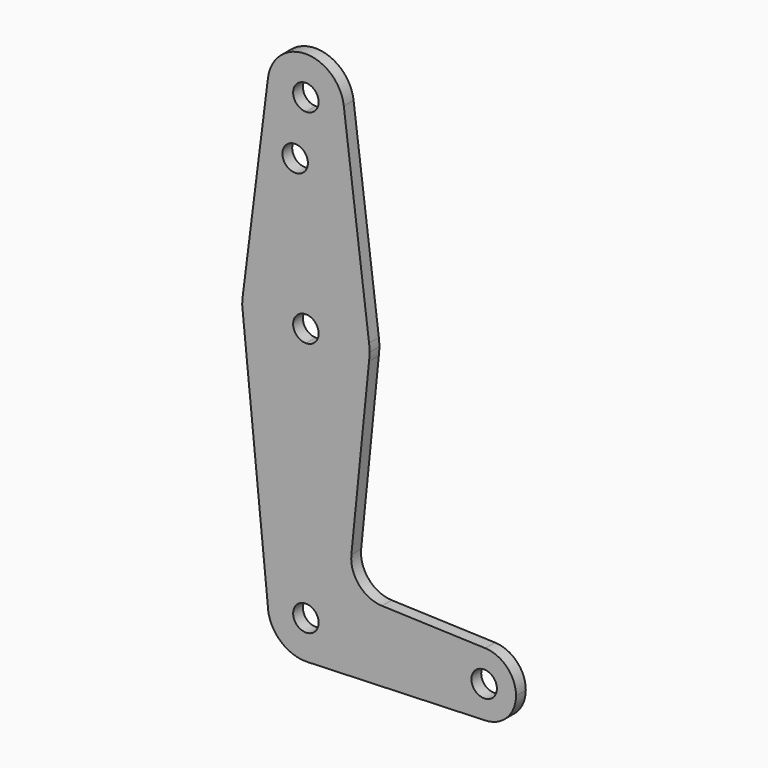
from build123d import *

# Parameters (mm, degrees)
F1_DEPTH = 3.048


with BuildPart() as f1:
    # F0 (on Front) → F1 (new body)
    with BuildSketch(Plane.XZ):
        with BuildLine():
            ThreePointArc((-9.4502929642, 115.490625), (-7.14375, 107.9998046905), (0, 104.775))
            ThreePointArc((0, 104.775), (6.7351920908, 107.5648079092), (9.525, 114.3))
            ThreePointArc((9.525, 114.3), (9.5063048942, 114.896483242), (9.4502929642, 115.490625))
            ThreePointArc((9.4502929642, 115.490625), (0, 123.825), (-9.4502929642, 115.490625))
        make_face()
        with BuildLine():
            ThreePointArc((3.175, 114.3), (2.2450640303, 112.0549359697), (0, 111.125))
            ThreePointArc((0, 111.125), (-2.2450640303, 116.5450640303), (3.175, 114.3))
        make_face(mode=Mode.SUBTRACT)
        with BuildLine():
            Line((0, 101.734949377), (0, 104.775))
            ThreePointArc((0, 104.775), (-7.14375, 107.9998046905), (-9.4502929642, 115.490625))
            Line((-9.4502929642, 115.490625), (-15.7504882737, 65.484375))
            ThreePointArc((-15.7504882737, 65.484375), (-10.5003255158, 75.40625), (0, 79.375))
            Line((0, 79.375), (0, 98.315450623))
            ThreePointArc((0, 98.315450623), (-5.8503284037, 100.0252), (0, 101.734949377))
        make_face()
        with BuildLine():
            ThreePointArc((9.525, 114.3), (6.7351920908, 107.5648079092), (0, 104.775))
            Line((0, 104.775), (0, 101.734949377))
            ThreePointArc((0, 101.734949377), (0.3721945808, 100.9158338524), (0.4996715963, 100.0252))
            ThreePointArc((0.4996715963, 100.0252), (0.3721945808, 99.1345661476), (0, 98.315450623))
            Line((0, 98.315450623), (0, 79.375))
            ThreePointArc((0, 79.375), (10.5003255158, 75.40625), (15.7504882737, 65.484375))
            Line((15.7504882737, 65.484375), (9.4502929642, 115.490625))
            ThreePointArc((9.4502929642, 115.490625), (9.5063048942, 114.896483242), (9.525, 114.3))
        make_face()
        with BuildLine():
            ThreePointArc((15.7504882737, 65.484375), (10.5003255158, 75.40625), (0, 79.375))
            Line((0, 79.375), (0, 66.675))
            ThreePointArc((0, 66.675), (2.2450640303, 65.7450640303), (3.175, 63.5))
            ThreePointArc((3.175, 63.5), (2.2450640303, 61.2549359697), (0, 60.325))
            Line((0, 60.325), (0, 47.625))
            ThreePointArc((0, 47.625), (10.5003255158, 51.59375), (15.7504882737, 61.515625))
            ThreePointArc((15.7504882737, 61.515625), (15.8438414904, 62.5058612634), (15.875, 63.5))
            ThreePointArc((15.875, 63.5), (15.8438414904, 64.4941387366), (15.7504882737, 65.484375))
        make_face()
        with BuildLine():
            ThreePointArc((0, 79.375), (-10.5003255158, 75.40625), (-15.7504882737, 65.484375))
            ThreePointArc((-15.7504882737, 65.484375), (-15.8438414904, 64.4941387366), (-15.875, 63.5))
            Line((-15.875, 63.5), (-15.5606435644, 60.3564356436))
            ThreePointArc((-15.5606435644, 60.3564356436), (-10.0526499203, 51.2134278751), (0, 47.625))
            Line((0, 47.625), (0, 60.325))
            ThreePointArc((0, 60.325), (-3.175, 63.5), (0, 66.675))
            Line((0, 66.675), (0, 79.375))
        make_face()
        with BuildLine():
            ThreePointArc((0, 47.625), (-10.0526499203, 51.2134278751), (-15.5606435644, 60.3564356436))
            Line((-15.5606435644, 60.3564356436), (-9.525, 0))
            ThreePointArc((-9.525, 0), (-6.7351920908, 6.7351920908), (0, 9.525))
            Line((0, 9.525), (0, 47.625))
        make_face()
        with BuildLine():
            Line((11.3396291712, 17.5928021167), (15.7504882737, 61.515625))
            ThreePointArc((15.7504882737, 61.515625), (10.5003255158, 51.59375), (0, 47.625))
            Line((0, 47.625), (0, 9.525))
            ThreePointArc((0, 9.525), (6.7351920908, 6.7351920908), (9.525, 0))
            Line((9.525, 0), (36.5125, 0))
            ThreePointArc((36.5125, 0), (38.9384772185, 5.7120069047), (44.7334821429, 7.9324362036))
            Line((44.7334821429, 7.9324362036), (18.9661061807, 8.8532870956))
            ThreePointArc((18.9661061807, 8.8532870956), (13.2599152451, 11.5711728307), (11.3396291712, 17.5928021167))
        make_face()
        with BuildLine():
            ThreePointArc((9.525, 0), (6.8544082857, -6.6138273378), (0.3401785714, -9.5189234444))
            Line((0.3401785714, -9.5189234444), (44.7334821429, -7.9324362036))
            ThreePointArc((44.7334821429, -7.9324362036), (38.9384772185, -5.7120069047), (36.5125, 0))
            Line((36.5125, 0), (9.525, 0))
        make_face()
        with BuildLine():
            ThreePointArc((0, 9.525), (-6.7351920908, 6.7351920908), (-9.525, 0))
            ThreePointArc((-9.525, 0), (-6.6138273378, -6.8544082857), (0.3401785714, -9.5189234444))
            ThreePointArc((0.3401785714, -9.5189234444), (6.8544082857, -6.6138273378), (9.525, 0))
            Line((9.525, 0), (3.175, 0))
            ThreePointArc((3.175, 0), (-2.2450640303, -2.2450640303), (0, 3.175))
            Line((0, 3.175), (0, 9.525))
        make_face()
        with BuildLine():
            ThreePointArc((36.5125, 0), (38.9384772185, -5.7120069047), (44.7334821429, -7.9324362036))
            ThreePointArc((44.7334821429, -7.9324362036), (50.1620069047, -5.5115227815), (52.3875, 0))
            ThreePointArc((52.3875, 0), (50.1620069047, 5.5115227815), (44.7334821429, 7.9324362036))
            ThreePointArc((44.7334821429, 7.9324362036), (38.9384772185, 5.7120069047), (36.5125, 0))
        make_face()
        with BuildLine():
            ThreePointArc((47.625, 0), (44.45, -3.175), (41.275, 0))
            ThreePointArc((41.275, 0), (44.45, 3.175), (47.625, 0))
        make_face(mode=Mode.SUBTRACT)
        with BuildLine():
            ThreePointArc((9.525, 0), (6.7351920908, 6.7351920908), (0, 9.525))
            Line((0, 9.525), (0, 3.175))
            ThreePointArc((0, 3.175), (2.2450640303, 2.2450640303), (3.175, 0))
            Line((3.175, 0), (9.525, 0))
        make_face()
    extrude(amount=-F1_DEPTH)


solid = f1.part
